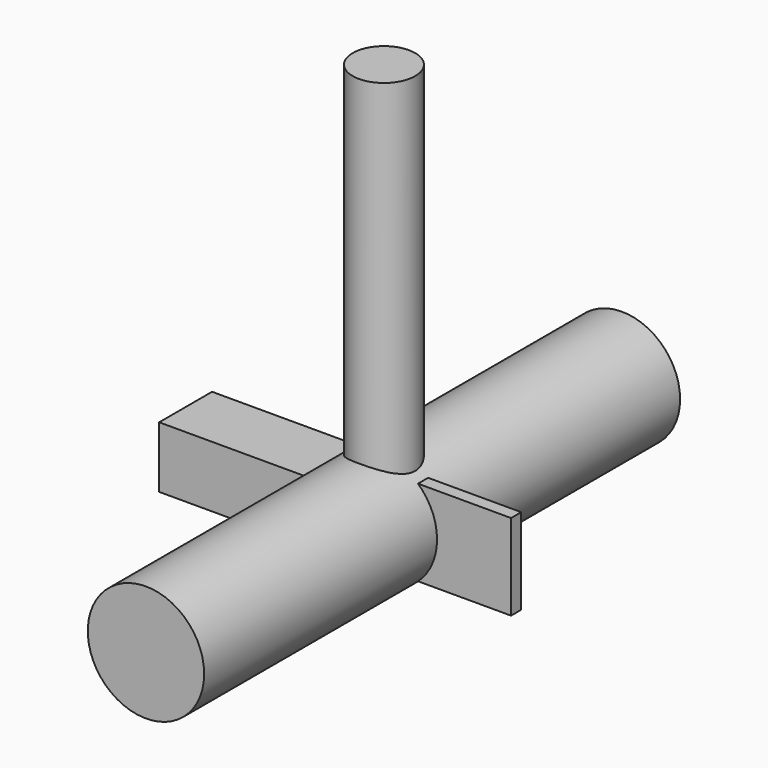
from build123d import *

# Parameters (mm, degrees)
F0_R      = 22.352
F1_DEPTH  = 114.3
F2_R      = 4.953
F3_DEPTH  = 50.8
F4_R      = 5.9436
F5_DEPTH  = 50.8
F6_R      = 5.08
F7_DEPTH  = 2.4384
F8_R      = 5.08
F9_DEPTH  = 12.7
F10_R     = 17.7833495677
F11_DEPTH = 5.334
F12_R     = 13.6590110192
F13_DEPTH = 21.59
F14_R     = 11.9975006325
F15_DEPTH = 152.4
F16_R     = 6.0706
F17_DEPTH = 127


with BuildPart() as f1:
    # F0 (on Front) → F1 (new body, symmetric)
    with BuildSketch(Plane.XZ):
        Circle(F0_R)
    extrude(amount=F1_DEPTH, both=True)


with BuildPart() as f3:
    # F2 (on Front) → F3 (new body, symmetric)
    with BuildSketch(Plane.XZ):
        Circle(F2_R)
    extrude(amount=F3_DEPTH, both=True)


with BuildPart() as f5:
    # F4 (on Front) → F5 (new body, symmetric)
    with BuildSketch(Plane.XZ):
        Circle(F4_R)
    extrude(amount=F5_DEPTH, both=True)


with BuildPart() as f7:
    # F6 (on Front) → F7 (new body, symmetric)
    with BuildSketch(Plane.XZ):
        with BuildLine():
            ThreePointArc((0, -16.51), (11.6743329574, -11.6743329574), (16.51, 0))
            ThreePointArc((16.51, 0), (11.6743329574, 11.6743329574), (0, 16.51))
            ThreePointArc((0, 16.51), (-16.51, 0), (0, -16.51))
        make_face()
        Circle(F6_R, mode=Mode.SUBTRACT)
        with BuildLine():
            ThreePointArc((0, 16.51), (11.6743329574, 11.6743329574), (16.51, 0))
            ThreePointArc((16.51, 0), (11.6743329574, -11.6743329574), (0, -16.51))
            Line((0, -16.51), (50.8, -16.51))
            Line((50.8, -16.51), (50.8, 16.51))
            Line((50.8, 16.51), (0, 16.51))
        make_face()
    extrude(amount=F7_DEPTH, both=True)


with BuildPart() as f9:
    # F8 (on Front) → F9 (new body, symmetric)
    with BuildSketch(Plane.XZ):
        with BuildLine():
            ThreePointArc((0, -11.776358387), (-11.776358387, 0), (0, 11.776358387))
            Line((0, 11.776358387), (-76.2, 11.776358387))
            Line((-76.2, 11.776358387), (-76.2, -11.776358387))
            Line((-76.2, -11.776358387), (0, -11.776358387))
        make_face()
        with BuildLine():
            ThreePointArc((0, -11.776358387), (8.3271428731, -8.3271428731), (11.776358387, 0))
            ThreePointArc((11.776358387, 0), (8.3271428731, 8.3271428731), (0, 11.776358387))
            ThreePointArc((0, 11.776358387), (-11.776358387, 0), (0, -11.776358387))
        make_face()
        Circle(F8_R, mode=Mode.SUBTRACT)
    extrude(amount=F9_DEPTH, both=True)

    # F10 (on Front) → F11 (cut, symmetric)
    with BuildSketch(Plane.XZ):
        Circle(F10_R)
    extrude(amount=F11_DEPTH, both=True, mode=Mode.SUBTRACT)


with BuildPart() as f13:
    # F12 (on Front) → F13 (new body, symmetric)
    with BuildSketch(Plane.XZ):
        Circle(F12_R)
    extrude(amount=F13_DEPTH, both=True)

    # F14 (on Top) → F15 (join)
    with BuildSketch(Plane.XY):
        Circle(F14_R)
    extrude(amount=F15_DEPTH)

    # F16 (on Front) → F17 (cut, symmetric)
    with BuildSketch(Plane.XZ):
        Circle(F16_R)
    extrude(amount=F17_DEPTH, both=True, mode=Mode.SUBTRACT)


solid = Compound([f1.part, f3.part, f5.part, f7.part, f9.part, f13.part])
